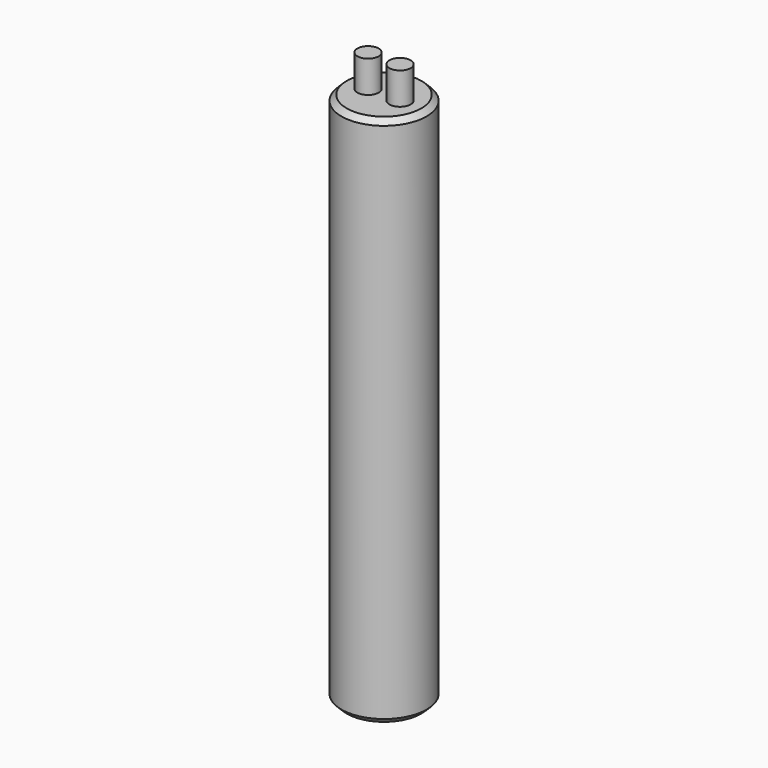
from build123d import *

# Parameters (mm, degrees)
F0_R     = 4
F1_DEPTH = 50
F2_SIZE  = 0.5
F3_R     = 1
F4_DEPTH = 3


with BuildPart() as f1:
    # F0 (on Top) → F1 (new body)
    with BuildSketch(Plane.XY):
        Circle(F0_R)
    extrude(amount=F1_DEPTH)

    # F2
    f2_edges = [f1.edges().sort_by_distance(p)[0] for p in [
        (-4, 0, 50),
        (-4, 0, 0),
    ]]
    chamfer(f2_edges, length=F2_SIZE)

    # F3 (on face) → F4 (join)
    with BuildSketch(Plane.XY.offset(50)):
        with Locations((1.5, 0)):
            Circle(F3_R)
        with Locations((-1.5, 0)):
            Circle(F3_R)
    extrude(amount=F4_DEPTH)


solid = f1.part
